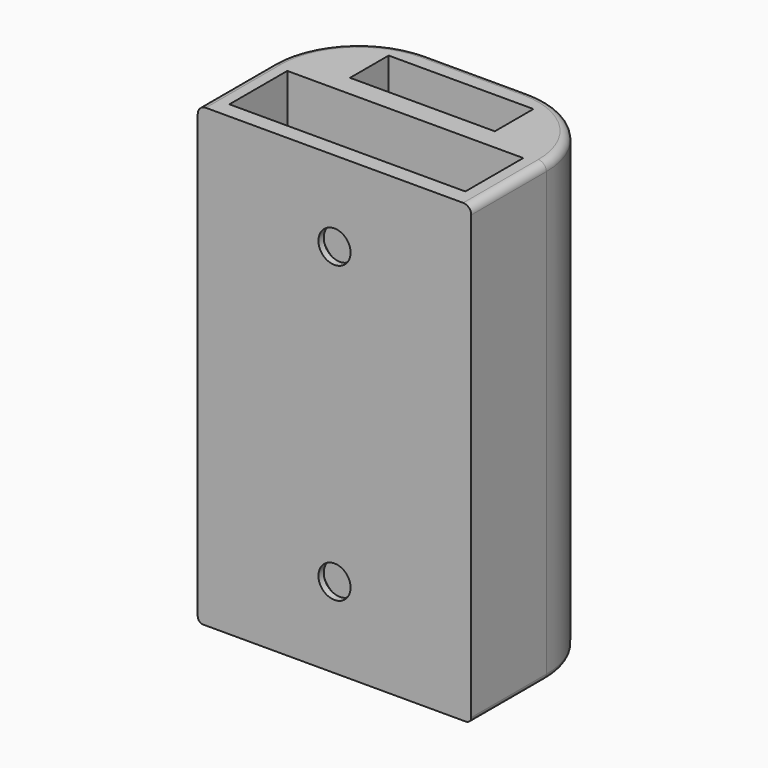
from build123d import *

# Parameters (mm, degrees)
SKETCH_W        = 51
SKETCH_H        = 33.5
PAD_DEPTH       = 85
SKETCH001_W     = 27
SKETCH001_H     = 9
SKETCH001_W_2   = 44
SKETCH001_H_2   = 13.5
POCKET_DEPTH    = 85
FILLET_R        = 16
FILLET001_R     = 1.5
SKETCH002_R     = 5
POCKET001_DEPTH = 17
SKETCH003_R     = 3
POCKET002_DEPTH = 3.001
CHAMFER_SIZE    = 1.75
FILLET002_R     = 1
FILLET003_R     = 1


with BuildPart() as part:
    # Sketch → Pad (new body)
    with BuildSketch(Plane.XY):
        Rectangle(SKETCH_W, SKETCH_H)
    extrude(amount=PAD_DEPTH)

    # Sketch001 (on Face6 of Pad) → Pocket (cut)
    with BuildSketch(Plane.XY.offset(85)):
        with Locations((0, 8.25)):
            Rectangle(SKETCH001_W, SKETCH001_H)
        with Locations((0, -7)):
            Rectangle(SKETCH001_W_2, SKETCH001_H_2)
    extrude(amount=-POCKET_DEPTH, mode=Mode.SUBTRACT)

    # Fillet
    fillet_edges = [part.edges().sort_by_distance(p)[0] for p in [
        (25.5, 16.75, 42.5),
        (-25.5, 16.75, 42.5),
    ]]
    fillet(fillet_edges, radius=FILLET_R)

    # Fillet001
    fillet001_edges = [part.edges().sort_by_distance(p)[0] for p in [
        (20.813708, 12.063708, 85),
        (25.5, -8, 85),
        (0, 16.75, 85),
        (-20.813708, 12.063708, 85),
        (-25.5, -8, 85),
    ]]
    fillet(fillet001_edges, radius=FILLET001_R)

    # Sketch002 (on Face7 of Fillet001) → Pocket001 (cut)
    with BuildSketch(Plane(origin=(0, 16.75, 0), x_dir=(-1, 0, 0), z_dir=(0, 1, 0))):
        with Locations((0, 70)):
            Circle(SKETCH002_R)
        with Locations((0, 15)):
            Circle(SKETCH002_R)
    extrude(amount=-POCKET001_DEPTH, mode=Mode.SUBTRACT)

    # Sketch003 (on Face13 of Pocket001) → Pocket002 (cut, through all)
    with BuildSketch(Plane(origin=(0, -13.75, 0), x_dir=(-1, 0, 0), z_dir=(0, 1, 0))):
        with Locations((0, 70)):
            Circle(SKETCH003_R)
        with Locations((0, 15)):
            Circle(SKETCH003_R)
    extrude(amount=-POCKET002_DEPTH, mode=Mode.SUBTRACT)

    # Chamfer
    chamfer_edges = [part.edges().sort_by_distance(p)[0] for p in [
        (3, -13.75, 15),
        (3, -13.75, 70),
    ]]
    chamfer(chamfer_edges, length=CHAMFER_SIZE)

    # Fillet002
    fillet002_edges = [part.edges().sort_by_distance(p)[0] for p in [
        (20.813708, 12.063708, 0),
        (-20.813708, 12.063708, 0),
    ]]
    fillet(fillet002_edges, radius=FILLET002_R)

    # Fillet003
    fillet003_edges = [part.edges().sort_by_distance(p)[0] for p in [
        (0, 3.75, 0),
        (-13.5, 8.25, 0),
        (0, 12.75, 0),
        (13.5, 8.25, 0),
        (0, -0.25, 0),
        (22, -7, 0),
        (0, -13.75, 0),
        (-22, -7, 0),
    ]]
    fillet(fillet003_edges, radius=FILLET003_R)


solid = part.part
